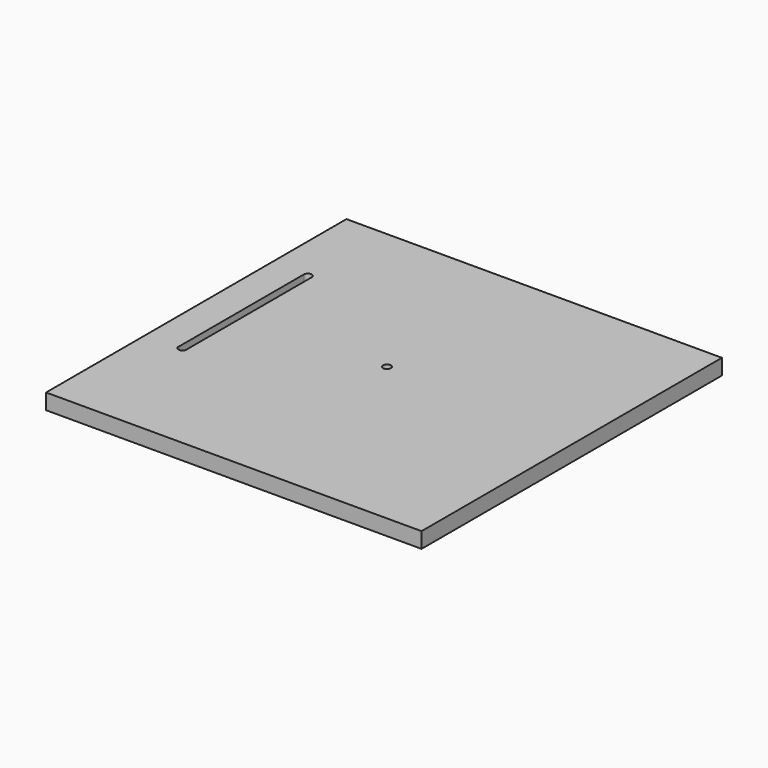
from build123d import *

# Parameters (mm, degrees)
F0_W     = 304.8
F0_H     = 304.8
F1_DEPTH = 12.7
F3_D     = 6.35


with BuildPart() as f1:
    # F0 (on Top) → F1 (new body)
    with BuildSketch(Plane.XY):
        with Locations((-1.617962, 27.955145)):
            Rectangle(F0_W, F0_H)
        with BuildLine():
            Line((-127.640426, -21.849007), (-127.640426, 104.155145))
            ThreePointArc((-127.640426, 104.155145), (-124.465426, 107.330145), (-121.290426, 104.155145))
            Line((-121.290426, 104.155145), (-121.290426, -21.849007))
            ThreePointArc((-121.290426, -21.849007), (-124.465426, -26.172368), (-127.640426, -21.849007))
        make_face(mode=Mode.SUBTRACT)
    extrude(amount=F1_DEPTH)

    # F3 (through all)
    with Locations(Plane.XY.offset(12.7)):
        with Locations((-7.352347, 38.137827)):
            Hole(F3_D / 2)


solid = f1.part
